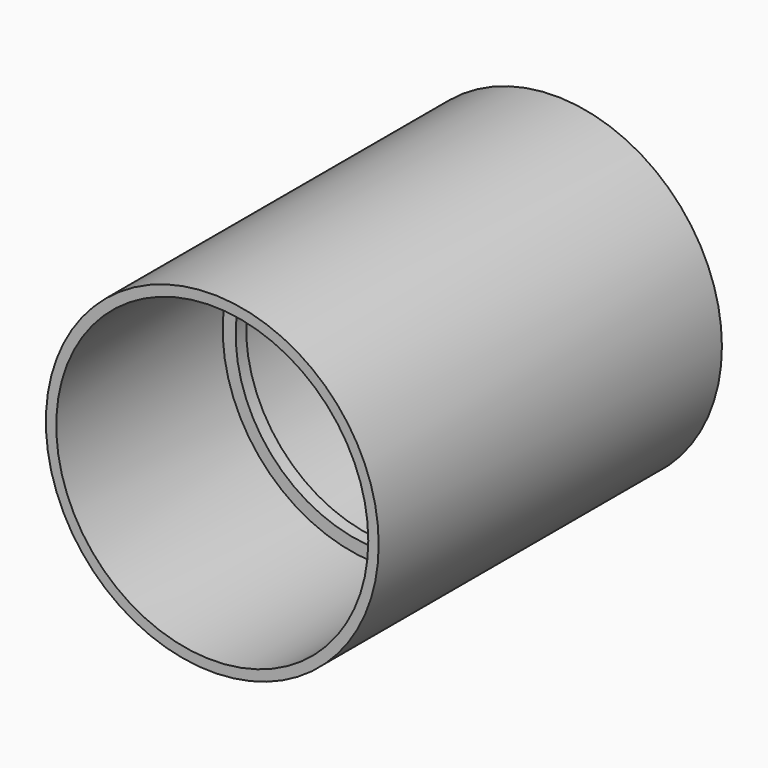
from build123d import *

# Parameters (mm, degrees)
F0_R          = 40.64
F1_DEPTH      = 1.5875
F2_R          = 34.925
F3_DEPTH      = 1.5885
F3_DEPTH_BACK = 1.5885
F5_R          = 40.64
F6_DEPTH      = 50.8
F7_R          = 38.1
F8_DEPTH      = 50.8


with BuildPart() as f1:
    # F0 (on Front) → F1 (new body, symmetric)
    with BuildSketch(Plane.XZ):
        Circle(F0_R)
    extrude(amount=F1_DEPTH, both=True)

    # F2 (on Front) → F3 (cut, two sides)
    with BuildSketch(Plane.XZ) as f3_sk:
        Circle(F2_R)
    extrude(amount=F3_DEPTH, mode=Mode.SUBTRACT)
    extrude(f3_sk.sketch, amount=-F3_DEPTH_BACK, mode=Mode.SUBTRACT)

    # F5 (on offset) → F6 (join)
    with BuildSketch(Plane.XZ.offset(1.5875)):
        Circle(F5_R)
    extrude(amount=F6_DEPTH)

    # F7 (on face) → F8 (cut)
    with BuildSketch(Plane.XZ.offset(52.3875)):
        Circle(F7_R)
    extrude(amount=-F8_DEPTH, mode=Mode.SUBTRACT)

    # F9: F1 across plane


with BuildPart() as f1_1:
    add(f1.part)
    add(f1.part.mirror(Plane.XZ))


solid = f1_1.part
